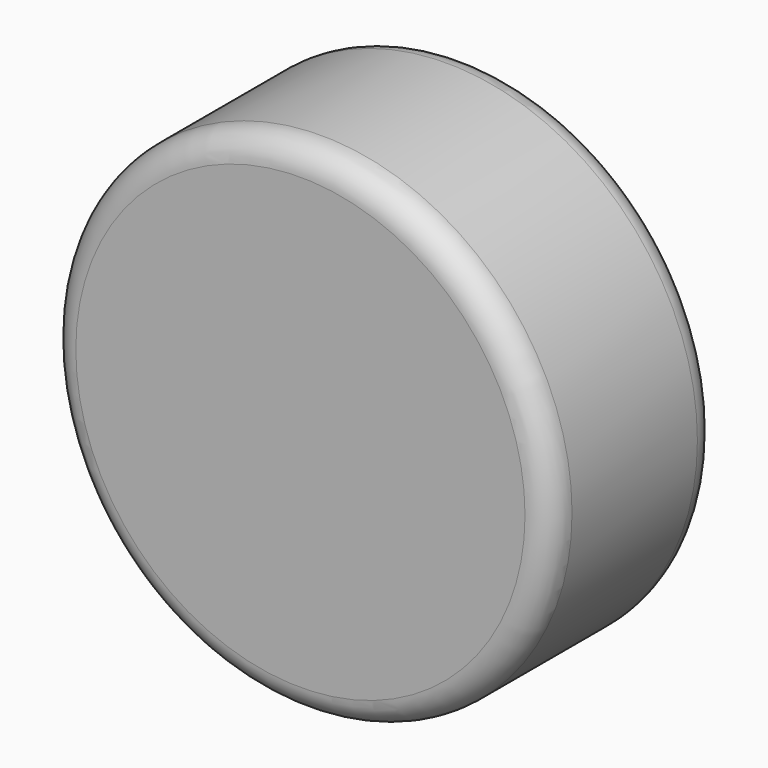
from build123d import *

# Parameters (mm, degrees)
F0_R     = 48
F1_DEPTH = 40
F2_R     = 5
F3_R     = 5


with BuildPart() as f1:
    # F0 (on Front) → F1 (new body)
    with BuildSketch(Plane.XZ):
        Circle(F0_R)
    extrude(amount=F1_DEPTH)

    # F2
    f2_edges = [f1.edges().sort_by_distance(p)[0] for p in [
        (-48, -40, 0),
    ]]
    fillet(f2_edges, radius=F2_R)

    # F3
    f3_edges = [f1.edges().sort_by_distance(p)[0] for p in [
        (48, -17.5, 0),
        (-48, -35, 0),
        (-48, 0, 0),
    ]]
    fillet(f3_edges, radius=F3_R)


solid = f1.part
